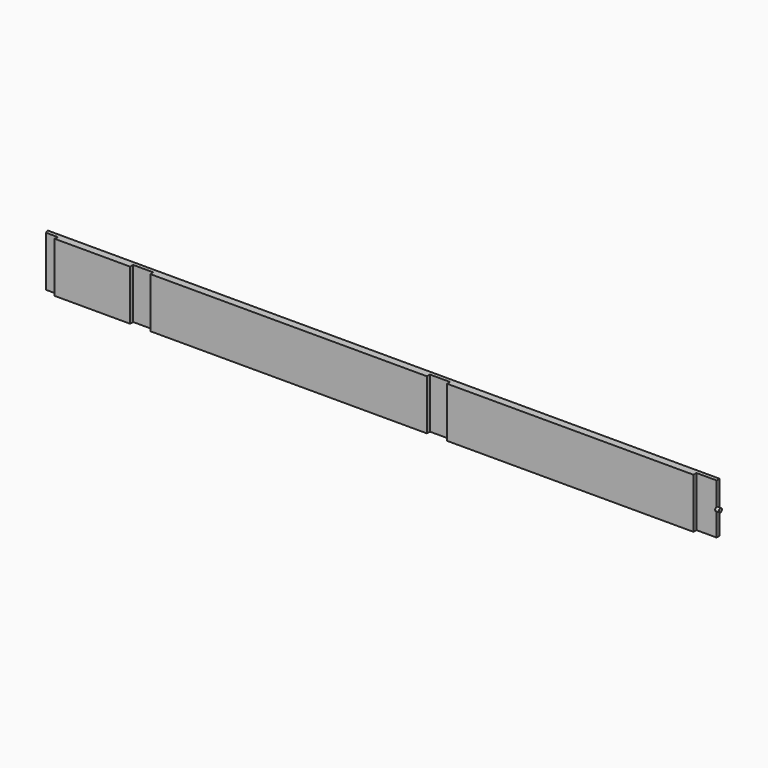
from build123d import *

# Parameters (mm, degrees)
F1_DEPTH = 63.5
F2_R     = 4.7625
F3_DEPTH = 9.525


with BuildPart() as f1:
    # F0 (on Top) → F1 (new body, symmetric)
    with BuildSketch(Plane.XY):
        Polygon((-1663.7, 0), (-1663.7, -9.525), (-1473.2, -9.525), (-1473.2, 0), (-1422.4, 0), (-1422.4, -9.525), (-723.9, -9.525), (-723.9, 0), (-673.1, 0), (-673.1, -9.525), (-50.8, -9.525), (-50.8, 0), (0, 0), (0, 9.525), (-1696.990768, 9.525), (-1693.045384, 0), align=None)
    extrude(amount=F1_DEPTH, both=True)

    # F2 (on Right) → F3 (join)
    with BuildSketch(Plane.YZ):
        Circle(F2_R)
    extrude(amount=F3_DEPTH)


solid = f1.part
